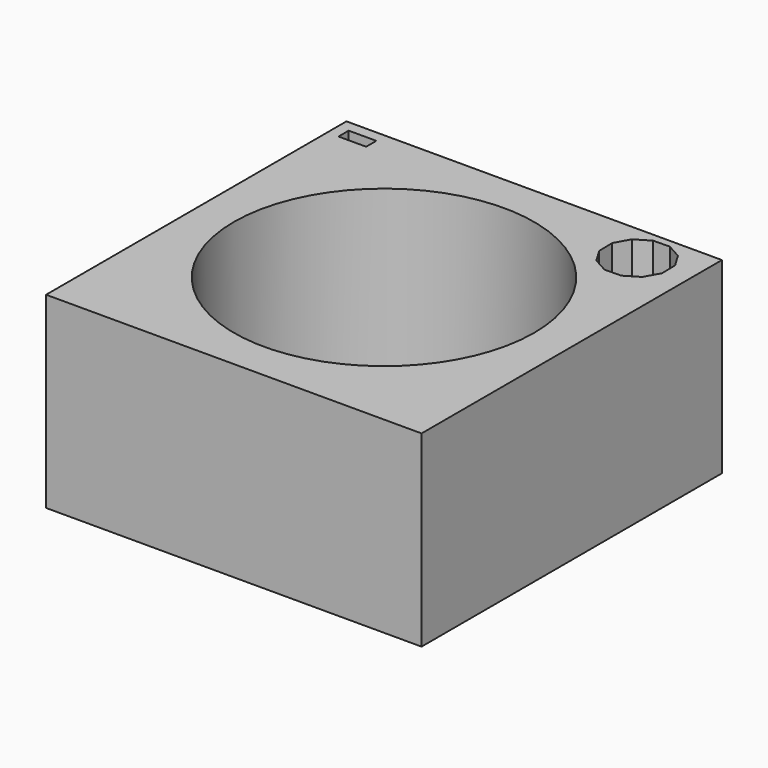
from build123d import *

# Parameters (mm, degrees)
F0_W     = 101.6
F0_H     = 101.6
F0_R     = 40.630591
F0_W_2   = 7.482946
F0_H_2   = 3.453679
F1_DEPTH = 50.8
F2_R     = 7.020446
F3_DEPTH = 25.4


with BuildPart() as f1:
    # F0 (on Top) → F1 (new body)
    with BuildSketch(Plane.XY):
        Rectangle(F0_W, F0_H)
        Circle(F0_R, mode=Mode.SUBTRACT)
        with Locations((-44.03428, 46.048924)):
            Rectangle(F0_W_2, F0_H_2, mode=Mode.SUBTRACT)
        Polygon((38.370412, 48.720342), (42.301911, 46.537825), (44.61543, 42.681961), (44.691065, 38.185924), (42.508548, 34.254426), (38.652683, 31.940906), (34.156647, 31.865272), (30.225148, 34.047788), (27.911628, 37.903653), (27.835994, 42.399689), (30.018511, 46.331188), (33.874375, 48.644708), align=None, mode=Mode.SUBTRACT)
    extrude(amount=F1_DEPTH)

    # F2 (on face) → F3 (join)
    with BuildSketch(Plane.XY.offset(50.8)):
        with Locations((-37.002888, 36.53761)):
            Circle(F2_R)
    extrude(amount=-F3_DEPTH)


solid = f1.part
